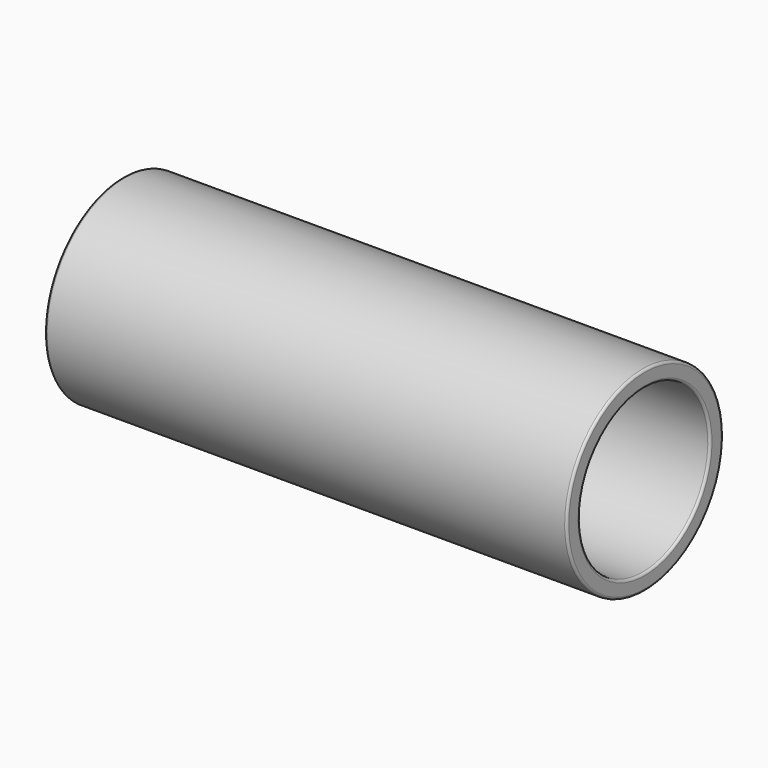
from build123d import *

# Parameters (mm, degrees)
F2_R = 0.5


with BuildPart() as f1:
    # F0 (on Front) → F1 (revolve)
    with BuildSketch(Plane.XZ):
        Polygon((-56.089743, 17.5), (56.089743, 17.5), (56.089743, 21), (-56.170024, 21), align=None)
    revolve(axis=Axis((0, 0, 0), (1, 0, 0)))

    # F2
    f2_edges = [f1.edges().sort_by_distance(p)[0] for p in [
        (56.089743, 0, -17.5),
        (56.089743, 0, -21),
        (-56.170024, 0, -21),
        (-56.089743, 0, -17.5),
    ]]
    fillet(f2_edges, radius=F2_R)


solid = f1.part
